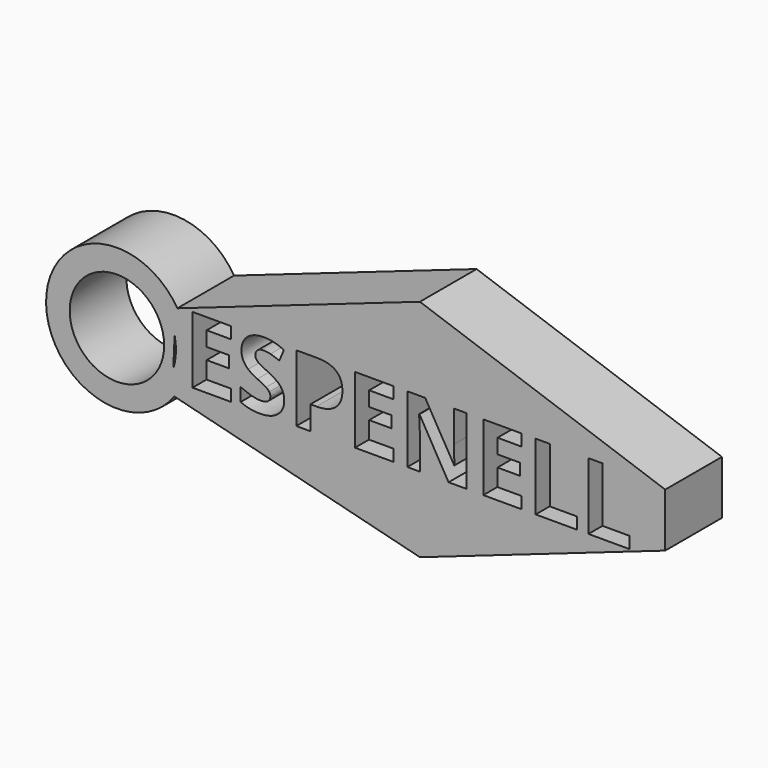
from build123d import *

# Parameters (mm, degrees)
F0_R     = 10
F1_DEPTH = 15


with BuildPart() as f1:
    # F0 (on Front) → F1 (new body)
    with BuildSketch(Plane.XZ):
        with BuildLine():
            ThreePointArc((-51.9289774608, 2.6432993809), (-51.6588535234, -0.5600733653), (-52.2146643877, -3.726402182))
            Line((-52.2146643877, -3.726402182), (-52.2146643877, -8.726402182))
            Line((-52.2146643877, -8.726402182), (-51.9870151319, -8.7836093454))
            ThreePointArc((-51.9870151319, -8.7836093454), (-49.874136957, -4.6157733907), (-49.1462999327, 0))
            ThreePointArc((-49.1462999327, 0), (-49.7101962212, 4.0741759452), (-51.3594878837, 7.8420301978))
            Line((-51.3594878837, 7.8420301978), (-51.9289774608, 7.6432993809))
            Line((-51.9289774608, 7.6432993809), (-51.9289774608, 2.6432993809))
        make_face()
        with BuildLine():
            Line((-52.2146643877, -8.726402182), (-52.2146643877, -3.726402182))
            Line((-52.2146643877, -3.726402182), (-51.9289774608, 2.6432993809))
            Line((-51.9289774608, 2.6432993809), (-51.9289774608, 7.6432993809))
            Line((-51.9289774608, 7.6432993809), (-51.3594878837, 7.8420301978))
            ThreePointArc((-51.3594878837, 7.8420301978), (-79.1356264541, 0.565765353), (-51.9870151319, -8.7836093454))
            Line((-51.9870151319, -8.7836093454), (-52.2146643877, -8.726402182))
        make_face()
        with Locations((-64.1462999327, 0)):
            Circle(F0_R, mode=Mode.SUBTRACT)
        with BuildLine():
            ThreePointArc((-49.1462999327, 0), (-49.874136957, -4.6157733907), (-51.9870151319, -8.7836093454))
            Line((-51.9870151319, -8.7836093454), (0, -21.8476962826))
            Line((0, -21.8476962826), (51.9289774608, -3.726402182))
            Line((51.9289774608, -3.726402182), (51.9289774608, 7.6432993809))
            Line((51.9289774608, 7.6432993809), (0, 25.7645934815))
            Line((0, 25.7645934815), (-51.3594878837, 7.8420301978))
            ThreePointArc((-51.3594878837, 7.8420301978), (-49.7101962212, 4.0741759452), (-49.1462999327, 0))
        make_face()
        Polygon((-40.0178585444, -3.4319313488), (-40.0178585444, -5.9052360061), (-48.1519392362, -5.9052360061), (-48.1519392362, 8.2204252181), (-40.0178585444, 8.2204252181), (-40.0178585444, 5.7656703457), (-45.15614897, 5.7656703457), (-45.15614897, 2.6647646316), (-40.3733960889, 2.6647646316), (-40.3733960889, 0.2100097592), (-45.15614897, 0.2100097592), (-45.15614897, -3.4319313488), align=None, mode=Mode.SUBTRACT)
        with BuildLine():
            add(Edge.make_bspline(
                [(-29.4676683654, 0.3506789616), (-28.7334060453, -0.5999975161), (-28.7334060453, -1.9819564934)],
                knots=[0, 0, 0, 1, 1, 1], degree=2))
            add(Edge.make_bspline(
                [(-28.7334060453, -1.9819564934), (-28.7334060453, -3.895675972), (-30.1107275763, -4.9978423599)],
                knots=[0, 0, 0, 1, 1, 1], degree=2))
            add(Edge.make_bspline(
                [(-30.1107275763, -4.9978423599), (-31.4880491074, -6.1000087479), (-33.939712349, -6.1000087479)],
                knots=[0, 0, 0, 1, 1, 1], degree=2))
            add(Edge.make_bspline(
                [(-33.939712349, -6.1000087479), (-36.2027861105, -6.1000087479), (-37.9402826322, -5.2467186411)],
                knots=[0, 0, 0, 1, 1, 1], degree=2))
            Line((-37.9402826322, -5.2467186411), (-37.9402826322, -2.4642509016))
            add(Edge.make_bspline(
                [(-37.9402826322, -2.4642509016), (-36.5119491926, -3.1042184817), (-35.5210815143, -3.3639154707)],
                knots=[0, 0, 0, 1, 1, 1], degree=2))
            add(Edge.make_bspline(
                [(-35.5210815143, -3.3639154707), (-34.5302138359, -3.6236124597), (-33.7078400374, -3.6236124597)],
                knots=[0, 0, 0, 1, 1, 1], degree=2))
            add(Edge.make_bspline(
                [(-33.7078400374, -3.6236124597), (-32.7247014361, -3.6236124597), (-32.197578381, -3.2479793149)],
                knots=[0, 0, 0, 1, 1, 1], degree=2))
            add(Edge.make_bspline(
                [(-32.197578381, -3.2479793149), (-31.6704553259, -2.87234617), (-31.6704553259, -2.127263142)],
                knots=[0, 0, 0, 1, 1, 1], degree=2))
            add(Edge.make_bspline(
                [(-31.6704553259, -2.127263142), (-31.6704553259, -1.7129846119), (-31.9023276375, -1.3883633756)],
                knots=[0, 0, 0, 1, 1, 1], degree=2))
            add(Edge.make_bspline(
                [(-31.9023276375, -1.3883633756), (-32.1341999491, -1.0637421394), (-32.5840322337, -0.7653997651)],
                knots=[0, 0, 0, 1, 1, 1], degree=2))
            add(Edge.make_bspline(
                [(-32.5840322337, -0.7653997651), (-33.0338645182, -0.4670573908), (-34.4158234955, 0.1914599742)],
                knots=[0, 0, 0, 1, 1, 1], degree=2))
            add(Edge.make_bspline(
                [(-34.4158234955, 0.1914599742), (-35.708125179, 0.8005112461), (-36.3558218361, 1.3600964248)],
                knots=[0, 0, 0, 1, 1, 1], degree=2))
            add(Edge.make_bspline(
                [(-36.3558218361, 1.3600964248), (-37.0035184933, 1.9196816036), (-37.389972346, 2.6647646316)],
                knots=[0, 0, 0, 1, 1, 1], degree=2))
            add(Edge.make_bspline(
                [(-37.389972346, 2.6647646316), (-37.7764261987, 3.4098476596), (-37.7764261987, 4.4022611534)],
                knots=[0, 0, 0, 1, 1, 1], degree=2))
            add(Edge.make_bspline(
                [(-37.7764261987, 4.4022611534), (-37.7764261987, 6.2788810621), (-36.505765931, 7.3501311418)],
                knots=[0, 0, 0, 1, 1, 1], degree=2))
            add(Edge.make_bspline(
                [(-36.505765931, 7.3501311418), (-35.2351056633, 8.4213812215), (-32.9936733176, 8.4213812215)],
                knots=[0, 0, 0, 1, 1, 1], degree=2))
            add(Edge.make_bspline(
                [(-32.9936733176, 8.4213812215), (-31.893052745, 8.4213812215), (-30.8929101742, 8.1616842325)],
                knots=[0, 0, 0, 1, 1, 1], degree=2))
            add(Edge.make_bspline(
                [(-30.8929101742, 8.1616842325), (-29.8927676034, 7.9019872435), (-28.8014219234, 7.4289677278)],
                knots=[0, 0, 0, 1, 1, 1], degree=2))
            Line((-28.8014219234, 7.4289677278), (-29.7660107397, 5.0978780882))
            add(Edge.make_bspline(
                [(-29.7660107397, 5.0978780882), (-30.8975476205, 5.5616227115), (-31.6364473868, 5.7455747454)],
                knots=[0, 0, 0, 1, 1, 1], degree=2))
            add(Edge.make_bspline(
                [(-31.6364473868, 5.7455747454), (-32.3753471532, 5.9295267793), (-33.089513873, 5.9295267793)],
                knots=[0, 0, 0, 1, 1, 1], degree=2))
            add(Edge.make_bspline(
                [(-33.089513873, 5.9295267793), (-33.939712349, 5.9295267793), (-34.3941820798, 5.5337980341)],
                knots=[0, 0, 0, 1, 1, 1], degree=2))
            add(Edge.make_bspline(
                [(-34.3941820798, 5.5337980341), (-34.8486518106, 5.1380692889), (-34.8486518106, 4.5011933396)],
                knots=[0, 0, 0, 1, 1, 1], degree=2))
            add(Edge.make_bspline(
                [(-34.8486518106, 4.5011933396), (-34.8486518106, 4.1054645945), (-34.6646997767, 3.810213851)],
                knots=[0, 0, 0, 1, 1, 1], degree=2))
            add(Edge.make_bspline(
                [(-34.6646997767, 3.810213851), (-34.4807477428, 3.5149631075), (-34.0803815514, 3.2398079644)],
                knots=[0, 0, 0, 1, 1, 1], degree=2))
            add(Edge.make_bspline(
                [(-34.0803815514, 3.2398079644), (-33.68001536, 2.9646528213), (-32.1836660423, 2.2504861015)],
                knots=[0, 0, 0, 1, 1, 1], degree=2))
            add(Edge.make_bspline(
                [(-32.1836660423, 2.2504861015), (-30.2019306856, 1.3013554392), (-29.4676683654, 0.3506789616)],
                knots=[0, 0, 0, 1, 1, 1], degree=2))
        make_face(mode=Mode.SUBTRACT)
        with BuildLine():
            add(Edge.make_bspline(
                [(-17.7534791821, 7.113621384), (-16.4163488518, 6.0068175498), (-16.4163488518, 3.8148512972)],
                knots=[0, 0, 0, 1, 1, 1], degree=2))
            add(Edge.make_bspline(
                [(-16.4163488518, 3.8148512972), (-16.4163488518, 1.5332277508), (-17.8415906605, 0.325945915)],
                knots=[0, 0, 0, 1, 1, 1], degree=2))
            add(Edge.make_bspline(
                [(-17.8415906605, 0.325945915), (-19.2668324693, -0.8813359209), (-21.8947186678, -0.8813359209)],
                knots=[0, 0, 0, 1, 1, 1], degree=2))
            Line((-21.8947186678, -0.8813359209), (-23.1777454587, -0.8813359209))
            Line((-23.1777454587, -0.8813359209), (-23.1777454587, -5.9052360061))
            Line((-23.1777454587, -5.9052360061), (-26.1735357249, -5.9052360061))
            Line((-26.1735357249, -5.9052360061), (-26.1735357249, 8.2204252181))
            Line((-26.1735357249, 8.2204252181), (-21.6628463561, 8.2204252181))
            add(Edge.make_bspline(
                [(-21.6628463561, 8.2204252181), (-19.0906095125, 8.2204252181), (-17.7534791821, 7.113621384)],
                knots=[0, 0, 0, 1, 1, 1], degree=2))
        make_face(mode=Mode.SUBTRACT)
        Polygon((-5.6141907608, -3.4319313488), (-5.6141907608, -5.9052360061), (-13.7482714526, -5.9052360061), (-13.7482714526, 8.2204252181), (-5.6141907608, 8.2204252181), (-5.6141907608, 5.7656703457), (-10.7524811864, 5.7656703457), (-10.7524811864, 2.6647646316), (-5.9697283053, 2.6647646316), (-5.9697283053, 0.2100097592), (-10.7524811864, 0.2100097592), (-10.7524811864, -3.4319313488), align=None, mode=Mode.SUBTRACT)
        with BuildLine():
            Line((9.8625131325, 8.2204252181), (9.8625131325, -5.9052360061))
            Line((9.8625131325, -5.9052360061), (6.056715591, -5.9052360061))
            Line((6.056715591, -5.9052360061), (-0.0894464825, 4.7794401136))
            Line((-0.0894464825, 4.7794401136), (-0.1760121455, 4.7794401136))
            add(Edge.make_bspline(
                [(-0.1760121455, 4.7794401136), (0.0094857038, 1.9505979118), (0.0094857038, 0.7417702605)],
                knots=[0, 0, 0, 1, 1, 1], degree=2))
            Line((0.0094857038, 0.7417702605), (0.0094857038, -5.9052360061))
            Line((0.0094857038, -5.9052360061), (-2.6678665878, -5.9052360061))
            Line((-2.6678665878, -5.9052360061), (-2.6678665878, 8.2204252181))
            Line((-2.6678665878, 8.2204252181), (1.1101062763, 8.2204252181))
            Line((1.1101062763, 8.2204252181), (7.2439018265, -2.3591354536))
            Line((7.2439018265, -2.3591354536), (7.3119177046, -2.3591354536))
            add(Edge.make_bspline(
                [(7.3119177046, -2.3591354536), (7.166611056, 0.3955076085), (7.166611056, 1.5332277508)],
                knots=[0, 0, 0, 1, 1, 1], degree=2))
            Line((7.166611056, 1.5332277508), (7.166611056, 8.2204252181))
            Line((7.166611056, 8.2204252181), (9.8625131325, 8.2204252181))
        make_face(mode=Mode.SUBTRACT)
        Polygon((21.5519692692, -3.4319313488), (21.5519692692, -5.9052360061), (13.4178885774, -5.9052360061), (13.4178885774, 8.2204252181), (21.5519692692, 8.2204252181), (21.5519692692, 5.7656703457), (16.4136788436, 5.7656703457), (16.4136788436, 2.6647646316), (21.1964317247, 2.6647646316), (21.1964317247, 0.2100097592), (16.4136788436, 0.2100097592), (16.4136788436, -3.4319313488), align=None, mode=Mode.SUBTRACT)
        Polygon((33.222875621, -5.9052360061), (24.4982934423, -5.9052360061), (24.4982934423, 8.2204252181), (27.4940837085, 8.2204252181), (27.4940837085, -3.4319313488), (33.222875621, -3.4319313488), align=None, mode=Mode.SUBTRACT)
        Polygon((44.4022126722, -5.9052360061), (35.6776304934, -5.9052360061), (35.6776304934, 8.2204252181), (38.6734207596, 8.2204252181), (38.6734207596, -3.4319313488), (44.4022126722, -3.4319313488), align=None, mode=Mode.SUBTRACT)
    extrude(amount=F1_DEPTH)


solid = f1.part
